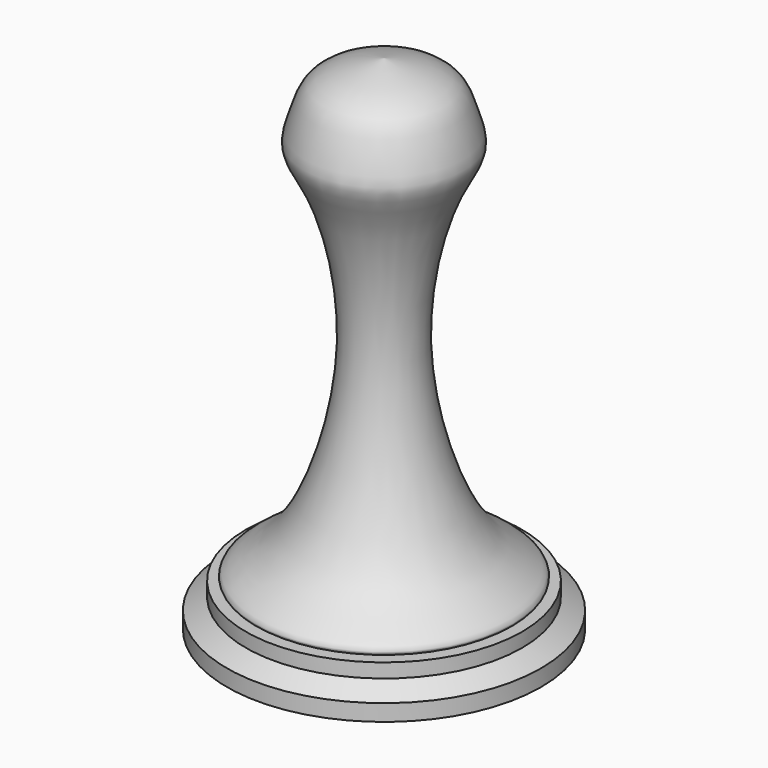
from build123d import *


with BuildPart() as f1:
    # F0 (on Front) → F1 (revolve)
    with BuildSketch(Plane.XZ):
        with BuildLine():
            Line((-63.5, -96.8661106072), (0, -96.8661106072))
            Line((0, -96.8661106072), (0, 106.3338893928))
            add(Edge.make_bspline(
                [(-50.7601909653, -79.6673662701), (-53.8256505999, -78.1244131866), (-46.2843601681, -71.9470223994), (-29.1036368064, -62.3637107394), (-7.9999078689, 3.0799622523), (-22.5861680065, 59.5538217795), (-34.2589585669, 74.147522566), (-29.7383127987, 86.3092070439), (-26.5079761861, 97.6639116905), (-13.4873573022, 103.3819913108), (-4.6219513206, 105.3222919723), (0, 106.3338893928)],
                knots=[0, 0, 0, 0, 0.0609488681, 0.1705833946, 0.3698571207, 0.5566641619, 0.6548616708, 0.7373628274, 0.8194562242, 0.9080746889, 1, 1, 1, 1], degree=3))
            Line((-50.7601909653, -79.6673662701), (-55.856113628, -79.6673662701))
            Line((-55.856113628, -79.6673662701), (-55.856113628, -85.4002810491))
            Line((-55.856113628, -85.4002810491), (-63.5, -90.1777028975))
            Line((-63.5, -90.1777028975), (-63.5, -96.8661106072))
        make_face()
    revolve(axis=Axis((0, 0, 4.7338893928), (0, 0, 1)))


solid = f1.part
